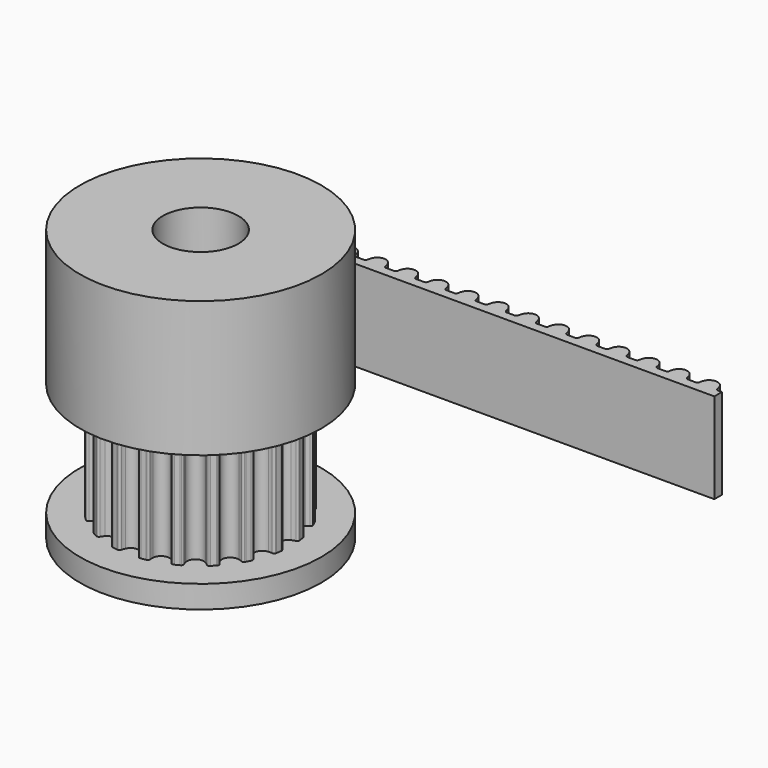
from build123d import *

# Parameters (mm, degrees)
F1_DEPTH  = 7.5
F2_R      = 8
F3_DEPTH  = 9
F4_R      = 8
F5_DEPTH  = 1.5
F6_R      = 2.5
F7_DEPTH  = 18.001
F8_R      = 1.5
F9_DEPTH  = 8.001
F10_R     = 1.5
F11_DEPTH = 8.0010001
F12_DEPTH = 6


with BuildPart() as f1:
    # F0 (on Top) → F1 (new body)
    with BuildSketch(Plane.XY):
        with BuildLine():
            ThreePointArc((-0.5137469529, -5.5950260293), (0, -5.25), (0.5137469529, -5.5950260293))
            ThreePointArc((0.5137469529, -5.5950260293), (0.5592692601, -5.7125893356), (0.5896381917, -5.8349459432))
            ThreePointArc((0.5896381917, -5.8349459432), (0.634011817, -5.9169199806), (0.718236871, -5.9568562008))
            ThreePointArc((0.718236871, -5.9568562008), (0.7555100891, -5.952243653), (0.7927537045, -5.9473978818))
            ThreePointArc((0.7927537045, -5.9473978818), (0.9386067902, -5.9261300436), (1.0838934413, -5.9012858775))
            ThreePointArc((1.0838934413, -5.9012858775), (1.1208116501, -5.8943855698), (1.1576859427, -5.8872543055))
            ThreePointArc((1.1576859427, -5.8872543055), (1.2254477584, -5.82324573), (1.2423182132, -5.7315715833))
            ThreePointArc((1.2423182132, -5.7315715833), (1.2333905124, -5.6058190183), (1.2403557397, -5.4799425032))
            ThreePointArc((1.2403557397, -5.4799425032), (1.6223392205, -4.9930467105), (2.2175605143, -5.1624294247))
            ThreePointArc((2.2175605143, -5.1624294247), (2.2971838607, -5.2601716067), (2.3638767022, -5.3671551397))
            ThreePointArc((2.3638767022, -5.3671551397), (2.4314098983, -5.4314048778), (2.5238536555, -5.4433595073))
            ThreePointArc((2.5238536555, -5.4433595073), (2.5578772368, -5.4274546558), (2.5918005942, -5.4113371434))
            ThreePointArc((2.5918005942, -5.4113371434), (2.7239429984, -5.3460391451), (2.8544415451, -5.2775148949))
            ThreePointArc((2.8544415451, -5.2775148949), (2.8874205358, -5.2595439583), (2.9202863902, -5.2413669399))
            ThreePointArc((2.9202863902, -5.2413669399), (2.964951969, -5.1595516144), (2.9526678557, -5.0671510626))
            ThreePointArc((2.9526678557, -5.0671510626), (2.905317428, -4.9503120775), (2.8730437705, -4.828444024))
            ThreePointArc((2.8730437705, -4.828444024), (3.0858725745, -4.2473392205), (3.7043038019, -4.2244982593))
            ThreePointArc((3.7043038019, -4.2244982593), (3.8102340997, -4.2928516312), (3.906722491, -4.373989796))
            ThreePointArc((3.906722491, -4.373989796), (3.9908046381, -4.4142260228), (4.0824180595, -4.3970288591))
            ThreePointArc((4.0824180595, -4.3970288591), (4.1098615388, -4.3713885816), (4.1371439837, -4.3455770225))
            ThreePointArc((4.1371439837, -4.3455770225), (4.2426406871, -4.2426406871), (4.3455770225, -4.1371439837))
            ThreePointArc((4.3455770225, -4.1371439837), (4.3713885816, -4.1098615388), (4.3970288591, -4.0824180595))
            ThreePointArc((4.3970288591, -4.0824180595), (4.4142260228, -3.9908046381), (4.373989796, -3.906722491))
            ThreePointArc((4.373989796, -3.906722491), (4.2928516312, -3.8102340997), (4.2244982593, -3.7043038019))
            ThreePointArc((4.2244982593, -3.7043038019), (4.2473392205, -3.0858725745), (4.828444024, -2.8730437705))
            ThreePointArc((4.828444024, -2.8730437705), (4.9503120775, -2.905317428), (5.0671510626, -2.9526678557))
            ThreePointArc((5.0671510626, -2.9526678557), (5.1595516144, -2.964951969), (5.2413669399, -2.9202863902))
            ThreePointArc((5.2413669399, -2.9202863902), (5.2595439583, -2.8874205358), (5.2775148949, -2.8544415451))
            ThreePointArc((5.2775148949, -2.8544415451), (5.3460391451, -2.7239429984), (5.4113371434, -2.5918005942))
            ThreePointArc((5.4113371434, -2.5918005942), (5.4432427829, -2.4673716464), (5.3671551397, -2.3638767022))
            ThreePointArc((5.3671551397, -2.3638767022), (5.2601716067, -2.2971838607), (5.1624294247, -2.2175605143))
            ThreePointArc((5.1624294247, -2.2175605143), (4.9930467105, -1.6223392205), (5.4799425032, -1.2403557397))
            ThreePointArc((5.4799425032, -1.2403557397), (5.6058190183, -1.2333905124), (5.7315715833, -1.2423182132))
            ThreePointArc((5.7315715833, -1.2423182132), (5.82324573, -1.2254477584), (5.8872543055, -1.1576859427))
            ThreePointArc((5.8872543055, -1.1576859427), (5.8943855698, -1.1208116501), (5.9012858775, -1.0838934413))
            ThreePointArc((5.9012858775, -1.0838934413), (5.9261300436, -0.9386067902), (5.9473978818, -0.7927537045))
            ThreePointArc((5.9473978818, -0.7927537045), (5.952243653, -0.7555100891), (5.9568562008, -0.718236871))
            ThreePointArc((5.9568562008, -0.718236871), (5.9169199806, -0.634011817), (5.8349459432, -0.5896381917))
            ThreePointArc((5.8349459432, -0.5896381917), (5.7125893356, -0.5592692601), (5.5950260293, -0.5137469529))
            ThreePointArc((5.5950260293, -0.5137469529), (5.25, 0), (5.5950260293, 0.5137469529))
            ThreePointArc((5.5950260293, 0.5137469529), (5.7125893356, 0.5592692601), (5.8349459432, 0.5896381917))
            ThreePointArc((5.8349459432, 0.5896381917), (5.9169199806, 0.634011817), (5.9568562008, 0.718236871))
            ThreePointArc((5.9568562008, 0.718236871), (5.952243653, 0.7555100891), (5.9473978818, 0.7927537045))
            ThreePointArc((5.9473978818, 0.7927537045), (5.9261300436, 0.9386067902), (5.9012858775, 1.0838934413))
            ThreePointArc((5.9012858775, 1.0838934413), (5.8943855698, 1.1208116501), (5.8872543055, 1.1576859427))
            ThreePointArc((5.8872543055, 1.1576859427), (5.82324573, 1.2254477584), (5.7315715833, 1.2423182132))
            ThreePointArc((5.7315715833, 1.2423182132), (5.6058190183, 1.2333905124), (5.4799425032, 1.2403557397))
            ThreePointArc((5.4799425032, 1.2403557397), (4.9930467105, 1.6223392205), (5.1624294247, 2.2175605143))
            ThreePointArc((5.1624294247, 2.2175605143), (5.2601716067, 2.2971838607), (5.3671551397, 2.3638767022))
            ThreePointArc((5.3671551397, 2.3638767022), (5.4314048778, 2.4314098983), (5.4433595073, 2.5238536555))
            ThreePointArc((5.4433595073, 2.5238536555), (5.4274546558, 2.5578772368), (5.4113371434, 2.5918005942))
            ThreePointArc((5.4113371434, 2.5918005942), (5.3460391451, 2.7239429984), (5.2775148949, 2.8544415451))
            ThreePointArc((5.2775148949, 2.8544415451), (5.2595439583, 2.8874205358), (5.2413669399, 2.9202863902))
            ThreePointArc((5.2413669399, 2.9202863902), (5.1595516144, 2.964951969), (5.0671510626, 2.9526678557))
            ThreePointArc((5.0671510626, 2.9526678557), (4.9503120775, 2.905317428), (4.828444024, 2.8730437705))
            ThreePointArc((4.828444024, 2.8730437705), (4.2473392205, 3.0858725745), (4.2244982593, 3.7043038019))
            ThreePointArc((4.2244982593, 3.7043038019), (4.2928516312, 3.8102340997), (4.373989796, 3.906722491))
            ThreePointArc((4.373989796, 3.906722491), (4.4142260228, 3.9908046381), (4.3970288591, 4.0824180595))
            ThreePointArc((4.3970288591, 4.0824180595), (4.3713885816, 4.1098615388), (4.3455770225, 4.1371439837))
            ThreePointArc((4.3455770225, 4.1371439837), (4.2426406871, 4.2426406871), (4.1371439837, 4.3455770225))
            ThreePointArc((4.1371439837, 4.3455770225), (4.1098615388, 4.3713885816), (4.0824180595, 4.3970288591))
            ThreePointArc((4.0824180595, 4.3970288591), (3.9908046381, 4.4142260228), (3.906722491, 4.373989796))
            ThreePointArc((3.906722491, 4.373989796), (3.8102340997, 4.2928516312), (3.7043038019, 4.2244982593))
            ThreePointArc((3.7043038019, 4.2244982593), (3.0858725745, 4.2473392205), (2.8730437705, 4.828444024))
            ThreePointArc((2.8730437705, 4.828444024), (2.905317428, 4.9503120775), (2.9526678557, 5.0671510626))
            ThreePointArc((2.9526678557, 5.0671510626), (2.964951969, 5.1595516144), (2.9202863902, 5.2413669399))
            ThreePointArc((2.9202863902, 5.2413669399), (2.8874205358, 5.2595439583), (2.8544415451, 5.2775148949))
            ThreePointArc((2.8544415451, 5.2775148949), (2.7239429984, 5.3460391451), (2.5918005942, 5.4113371434))
            ThreePointArc((2.5918005942, 5.4113371434), (2.5578772368, 5.4274546558), (2.5238536555, 5.4433595073))
            ThreePointArc((2.5238536555, 5.4433595073), (2.4314098983, 5.4314048778), (2.3638767022, 5.3671551397))
            ThreePointArc((2.3638767022, 5.3671551397), (2.2971838607, 5.2601716067), (2.2175605143, 5.1624294247))
            ThreePointArc((2.2175605143, 5.1624294247), (1.6223392205, 4.9930467105), (1.2403557397, 5.4799425032))
            ThreePointArc((1.2403557397, 5.4799425032), (1.2333905124, 5.6058190183), (1.2423182132, 5.7315715833))
            ThreePointArc((1.2423182132, 5.7315715833), (1.2254477584, 5.82324573), (1.1576859427, 5.8872543055))
            ThreePointArc((1.1576859427, 5.8872543055), (1.1208116501, 5.8943855698), (1.0838934413, 5.9012858775))
            ThreePointArc((1.0838934413, 5.9012858775), (0.9386067902, 5.9261300436), (0.7927537045, 5.9473978818))
            ThreePointArc((0.7927537045, 5.9473978818), (0.7555100891, 5.952243653), (0.718236871, 5.9568562008))
            ThreePointArc((0.718236871, 5.9568562008), (0.634011817, 5.9169199806), (0.5896381917, 5.8349459432))
            ThreePointArc((0.5896381917, 5.8349459432), (0.5592692601, 5.7125893356), (0.5137469529, 5.5950260293))
            ThreePointArc((0.5137469529, 5.5950260293), (0, 5.25), (-0.5137469529, 5.5950260293))
            ThreePointArc((-0.5137469529, 5.5950260293), (-0.5592692601, 5.7125893356), (-0.5896381917, 5.8349459432))
            ThreePointArc((-0.5896381917, 5.8349459432), (-0.634011817, 5.9169199806), (-0.718236871, 5.9568562008))
            ThreePointArc((-0.718236871, 5.9568562008), (-0.7555100891, 5.952243653), (-0.7927537045, 5.9473978818))
            ThreePointArc((-0.7927537045, 5.9473978818), (-0.9386067902, 5.9261300436), (-1.0838934413, 5.9012858775))
            ThreePointArc((-1.0838934413, 5.9012858775), (-1.1208116501, 5.8943855698), (-1.1576859427, 5.8872543055))
            ThreePointArc((-1.1576859427, 5.8872543055), (-1.2254477584, 5.82324573), (-1.2423182132, 5.7315715833))
            ThreePointArc((-1.2423182132, 5.7315715833), (-1.2333905124, 5.6058190183), (-1.2403557397, 5.4799425032))
            ThreePointArc((-1.2403557397, 5.4799425032), (-1.6223392205, 4.9930467105), (-2.2175605143, 5.1624294247))
            ThreePointArc((-2.2175605143, 5.1624294247), (-2.2971838607, 5.2601716067), (-2.3638767022, 5.3671551397))
            ThreePointArc((-2.3638767022, 5.3671551397), (-2.4314098983, 5.4314048778), (-2.5238536555, 5.4433595073))
            ThreePointArc((-2.5238536555, 5.4433595073), (-2.5578772368, 5.4274546558), (-2.5918005942, 5.4113371434))
            ThreePointArc((-2.5918005942, 5.4113371434), (-2.7239429984, 5.3460391451), (-2.8544415451, 5.2775148949))
            ThreePointArc((-2.8544415451, 5.2775148949), (-2.8874205358, 5.2595439583), (-2.9202863902, 5.2413669399))
            ThreePointArc((-2.9202863902, 5.2413669399), (-2.964951969, 5.1595516144), (-2.9526678557, 5.0671510626))
            ThreePointArc((-2.9526678557, 5.0671510626), (-2.905317428, 4.9503120775), (-2.8730437705, 4.828444024))
            ThreePointArc((-2.8730437705, 4.828444024), (-3.0858725745, 4.2473392205), (-3.7043038019, 4.2244982593))
            ThreePointArc((-3.7043038019, 4.2244982593), (-3.8102340997, 4.2928516312), (-3.906722491, 4.373989796))
            ThreePointArc((-3.906722491, 4.373989796), (-3.9908046381, 4.4142260228), (-4.0824180595, 4.3970288591))
            ThreePointArc((-4.0824180595, 4.3970288591), (-4.1098615388, 4.3713885816), (-4.1371439837, 4.3455770225))
            ThreePointArc((-4.1371439837, 4.3455770225), (-4.2426406871, 4.2426406871), (-4.3455770225, 4.1371439837))
            ThreePointArc((-4.3455770225, 4.1371439837), (-4.3713885816, 4.1098615388), (-4.3970288591, 4.0824180595))
            ThreePointArc((-4.3970288591, 4.0824180595), (-4.4142260228, 3.9908046381), (-4.373989796, 3.906722491))
            ThreePointArc((-4.373989796, 3.906722491), (-4.2928516312, 3.8102340997), (-4.2244982593, 3.7043038019))
            ThreePointArc((-4.2244982593, 3.7043038019), (-4.2473392205, 3.0858725745), (-4.828444024, 2.8730437705))
            ThreePointArc((-4.828444024, 2.8730437705), (-4.9503120775, 2.905317428), (-5.0671510626, 2.9526678557))
            ThreePointArc((-5.0671510626, 2.9526678557), (-5.1595516144, 2.964951969), (-5.2413669399, 2.9202863902))
            ThreePointArc((-5.2413669399, 2.9202863902), (-5.2595439583, 2.8874205358), (-5.2775148949, 2.8544415451))
            ThreePointArc((-5.2775148949, 2.8544415451), (-5.3460391451, 2.7239429984), (-5.4113371434, 2.5918005942))
            ThreePointArc((-5.4113371434, 2.5918005942), (-5.4274546558, 2.5578772368), (-5.4433595073, 2.5238536555))
            ThreePointArc((-5.4433595073, 2.5238536555), (-5.4314048778, 2.4314098983), (-5.3671551397, 2.3638767022))
            ThreePointArc((-5.3671551397, 2.3638767022), (-5.2601716067, 2.2971838607), (-5.1624294247, 2.2175605143))
            ThreePointArc((-5.1624294247, 2.2175605143), (-4.9930467105, 1.6223392205), (-5.4799425032, 1.2403557397))
            ThreePointArc((-5.4799425032, 1.2403557397), (-5.6058190183, 1.2333905124), (-5.7315715833, 1.2423182132))
            ThreePointArc((-5.7315715833, 1.2423182132), (-5.82324573, 1.2254477584), (-5.8872543055, 1.1576859427))
            ThreePointArc((-5.8872543055, 1.1576859427), (-5.8943855698, 1.1208116501), (-5.9012858775, 1.0838934413))
            ThreePointArc((-5.9012858775, 1.0838934413), (-5.9261300436, 0.9386067902), (-5.9473978818, 0.7927537045))
            ThreePointArc((-5.9473978818, 0.7927537045), (-5.952243653, 0.7555100891), (-5.9568562008, 0.718236871))
            ThreePointArc((-5.9568562008, 0.718236871), (-5.9169199806, 0.634011817), (-5.8349459432, 0.5896381917))
            ThreePointArc((-5.8349459432, 0.5896381917), (-5.7125893356, 0.5592692601), (-5.5950260293, 0.5137469529))
            ThreePointArc((-5.5950260293, 0.5137469529), (-5.25, 0), (-5.5950260293, -0.5137469529))
            ThreePointArc((-5.5950260293, -0.5137469529), (-5.7125893356, -0.5592692601), (-5.8349459432, -0.5896381917))
            ThreePointArc((-5.8349459432, -0.5896381917), (-5.9169199806, -0.634011817), (-5.9568562008, -0.718236871))
            ThreePointArc((-5.9568562008, -0.718236871), (-5.952243653, -0.7555100891), (-5.9473978818, -0.7927537045))
            ThreePointArc((-5.9473978818, -0.7927537045), (-5.9261300436, -0.9386067902), (-5.9012858775, -1.0838934413))
            ThreePointArc((-5.9012858775, -1.0838934413), (-5.8943855698, -1.1208116501), (-5.8872543055, -1.1576859427))
            ThreePointArc((-5.8872543055, -1.1576859427), (-5.82324573, -1.2254477584), (-5.7315715833, -1.2423182132))
            ThreePointArc((-5.7315715833, -1.2423182132), (-5.6058190183, -1.2333905124), (-5.4799425032, -1.2403557397))
            ThreePointArc((-5.4799425032, -1.2403557397), (-4.9930467105, -1.6223392205), (-5.1624294247, -2.2175605143))
            ThreePointArc((-5.1624294247, -2.2175605143), (-5.2601716067, -2.2971838607), (-5.3671551397, -2.3638767022))
            ThreePointArc((-5.3671551397, -2.3638767022), (-5.4314048778, -2.4314098983), (-5.4433595073, -2.5238536555))
            ThreePointArc((-5.4433595073, -2.5238536555), (-5.4274546558, -2.5578772368), (-5.4113371434, -2.5918005942))
            ThreePointArc((-5.4113371434, -2.5918005942), (-5.3460391451, -2.7239429984), (-5.2775148949, -2.8544415451))
            ThreePointArc((-5.2775148949, -2.8544415451), (-5.2595439583, -2.8874205358), (-5.2413669399, -2.9202863902))
            ThreePointArc((-5.2413669399, -2.9202863902), (-5.1595516144, -2.964951969), (-5.0671510626, -2.9526678557))
            ThreePointArc((-5.0671510626, -2.9526678557), (-4.9503120775, -2.905317428), (-4.828444024, -2.8730437705))
            ThreePointArc((-4.828444024, -2.8730437705), (-4.2473392205, -3.0858725745), (-4.2244982593, -3.7043038019))
            ThreePointArc((-4.2244982593, -3.7043038019), (-4.2928516312, -3.8102340997), (-4.373989796, -3.906722491))
            ThreePointArc((-4.373989796, -3.906722491), (-4.4142260228, -3.9908046381), (-4.3970288591, -4.0824180595))
            ThreePointArc((-4.3970288591, -4.0824180595), (-4.3713885816, -4.1098615388), (-4.3455770225, -4.1371439837))
            ThreePointArc((-4.3455770225, -4.1371439837), (-4.2426406871, -4.2426406871), (-4.1371439837, -4.3455770225))
            ThreePointArc((-4.1371439837, -4.3455770225), (-4.1098615388, -4.3713885816), (-4.0824180595, -4.3970288591))
            ThreePointArc((-4.0824180595, -4.3970288591), (-3.9908046381, -4.4142260228), (-3.906722491, -4.373989796))
            ThreePointArc((-3.906722491, -4.373989796), (-3.8102340997, -4.2928516312), (-3.7043038019, -4.2244982593))
            ThreePointArc((-3.7043038019, -4.2244982593), (-3.0858725745, -4.2473392205), (-2.8730437705, -4.828444024))
            ThreePointArc((-2.8730437705, -4.828444024), (-2.905317428, -4.9503120775), (-2.9526678557, -5.0671510626))
            ThreePointArc((-2.9526678557, -5.0671510626), (-2.964951969, -5.1595516144), (-2.9202863902, -5.2413669399))
            ThreePointArc((-2.9202863902, -5.2413669399), (-2.8874205358, -5.2595439583), (-2.8544415451, -5.2775148949))
            ThreePointArc((-2.8544415451, -5.2775148949), (-2.7239429984, -5.3460391451), (-2.5918005942, -5.4113371434))
            ThreePointArc((-2.5918005942, -5.4113371434), (-2.5578772368, -5.4274546558), (-2.5238536555, -5.4433595073))
            ThreePointArc((-2.5238536555, -5.4433595073), (-2.4314098983, -5.4314048778), (-2.3638767022, -5.3671551397))
            ThreePointArc((-2.3638767022, -5.3671551397), (-2.2971838607, -5.2601716067), (-2.2175605143, -5.1624294247))
            ThreePointArc((-2.2175605143, -5.1624294247), (-1.6223392205, -4.9930467105), (-1.2403557397, -5.4799425032))
            ThreePointArc((-1.2403557397, -5.4799425032), (-1.2333905124, -5.6058190183), (-1.2423182132, -5.7315715833))
            ThreePointArc((-1.2423182132, -5.7315715833), (-1.2254477584, -5.82324573), (-1.1576859427, -5.8872543055))
            ThreePointArc((-1.1576859427, -5.8872543055), (-1.1208116501, -5.8943855698), (-1.0838934413, -5.9012858775))
            ThreePointArc((-1.0838934413, -5.9012858775), (-0.9386067902, -5.9261300436), (-0.7927537045, -5.9473978818))
            ThreePointArc((-0.7927537045, -5.9473978818), (-0.7555100891, -5.952243653), (-0.718236871, -5.9568562008))
            ThreePointArc((-0.718236871, -5.9568562008), (-0.634011817, -5.9169199806), (-0.5896381917, -5.8349459432))
            ThreePointArc((-0.5896381917, -5.8349459432), (-0.5592692601, -5.7125893356), (-0.5137469529, -5.5950260293))
        make_face()
    extrude(amount=F1_DEPTH)

    # F2 (on face) → F3 (join)
    with BuildSketch(Plane.XY.offset(7.5)):
        Circle(F2_R)
    extrude(amount=F3_DEPTH)

    # F4 (on face) → F5 (join)
    with BuildSketch(Plane(origin=(0, 0, 0), x_dir=(1, 0, 0), z_dir=(0, 0, -1))):
        Circle(F4_R)
    extrude(amount=F5_DEPTH)

    # F6 (on face) → F7 (cut, through all)
    with BuildSketch(Plane(origin=(0, 0, -1.5), x_dir=(1, 0, 0), z_dir=(0, 0, -1))):
        Circle(F6_R)
    extrude(amount=-F7_DEPTH, mode=Mode.SUBTRACT)

    # F8 (on Right) → F9 (cut, through all)
    with BuildSketch(Plane.YZ):
        with Locations((0, 12)):
            Circle(F8_R)
    extrude(amount=-F9_DEPTH, mode=Mode.SUBTRACT)

    # F10 (on Front) → F11 (cut, through all)
    with BuildSketch(Plane.XZ):
        with Locations((0, 12)):
            Circle(F10_R)
    extrude(amount=-F11_DEPTH, mode=Mode.SUBTRACT)


with BuildPart() as f12:
    # F0 (on Top) → F12 (new body)
    with BuildSketch(Plane.XY):
        with BuildLine():
            Line((-18.1710498184, 18.4070537127), (-18.1710498184, 17.7770537127))
            Line((-18.1710498184, 17.7770537127), (19.8289501816, 17.7770537127))
            Line((19.8289501816, 17.7770537127), (19.8289501816, 18.4070537127))
            Line((19.8289501816, 18.4070537127), (19.5691256067, 18.4070537127))
            ThreePointArc((19.5691256067, 18.4070537127), (19.4702185357, 18.444282301), (19.420407073, 18.5374884953))
            ThreePointArc((19.420407073, 18.5374884953), (19.3865618959, 18.6951158667), (19.3278265861, 18.8452559599))
            ThreePointArc((19.3278265861, 18.8452559599), (19.1230995933, 19.0726927714), (18.8289501816, 19.1570537127))
            ThreePointArc((18.8289501816, 19.1570537127), (18.5348007699, 19.0726927714), (18.3300737771, 18.8452559599))
            ThreePointArc((18.3300737771, 18.8452559599), (18.2713384673, 18.6951158667), (18.2374932902, 18.5374884953))
            ThreePointArc((18.2374932902, 18.5374884953), (18.1876818275, 18.444282301), (18.0887747565, 18.4070537127))
            Line((18.0887747565, 18.4070537127), (17.8289501816, 18.4070537127))
            Line((17.8289501816, 18.4070537127), (17.5691256067, 18.4070537127))
            ThreePointArc((17.5691256067, 18.4070537127), (17.4702185357, 18.444282301), (17.420407073, 18.5374884953))
            ThreePointArc((17.420407073, 18.5374884953), (17.3865618959, 18.6951158667), (17.3278265861, 18.8452559599))
            ThreePointArc((17.3278265861, 18.8452559599), (17.1230995933, 19.0726927714), (16.8289501816, 19.1570537127))
            ThreePointArc((16.8289501816, 19.1570537127), (16.5348007699, 19.0726927714), (16.3300737771, 18.8452559599))
            ThreePointArc((16.3300737771, 18.8452559599), (16.2713384673, 18.6951158667), (16.2374932902, 18.5374884953))
            ThreePointArc((16.2374932902, 18.5374884953), (16.1876818275, 18.444282301), (16.0887747565, 18.4070537127))
            Line((16.0887747565, 18.4070537127), (15.8289501816, 18.4070537127))
            Line((15.8289501816, 18.4070537127), (15.5691256067, 18.4070537127))
            ThreePointArc((15.5691256067, 18.4070537127), (15.4702185357, 18.444282301), (15.420407073, 18.5374884953))
            ThreePointArc((15.420407073, 18.5374884953), (15.3865618959, 18.6951158667), (15.3278265861, 18.8452559599))
            ThreePointArc((15.3278265861, 18.8452559599), (15.1230995933, 19.0726927714), (14.8289501816, 19.1570537127))
            ThreePointArc((14.8289501816, 19.1570537127), (14.5348007699, 19.0726927714), (14.3300737771, 18.8452559599))
            ThreePointArc((14.3300737771, 18.8452559599), (14.2713384673, 18.6951158667), (14.2374932902, 18.5374884953))
            ThreePointArc((14.2374932902, 18.5374884953), (14.1876818275, 18.444282301), (14.0887747565, 18.4070537127))
            Line((14.0887747565, 18.4070537127), (13.8289501816, 18.4070537127))
            Line((13.8289501816, 18.4070537127), (13.5691256067, 18.4070537127))
            ThreePointArc((13.5691256067, 18.4070537127), (13.4702185357, 18.444282301), (13.420407073, 18.5374884953))
            ThreePointArc((13.420407073, 18.5374884953), (13.3865618959, 18.6951158667), (13.3278265861, 18.8452559599))
            ThreePointArc((13.3278265861, 18.8452559599), (13.1230995933, 19.0726927714), (12.8289501816, 19.1570537127))
            ThreePointArc((12.8289501816, 19.1570537127), (12.5348007699, 19.0726927714), (12.3300737771, 18.8452559599))
            ThreePointArc((12.3300737771, 18.8452559599), (12.2713384673, 18.6951158667), (12.2374932902, 18.5374884953))
            ThreePointArc((12.2374932902, 18.5374884953), (12.1876818275, 18.444282301), (12.0887747565, 18.4070537127))
            Line((12.0887747565, 18.4070537127), (11.8289501816, 18.4070537127))
            Line((11.8289501816, 18.4070537127), (11.5691256067, 18.4070537127))
            ThreePointArc((11.5691256067, 18.4070537127), (11.4702185357, 18.444282301), (11.420407073, 18.5374884953))
            ThreePointArc((11.420407073, 18.5374884953), (11.3865618959, 18.6951158667), (11.3278265861, 18.8452559599))
            ThreePointArc((11.3278265861, 18.8452559599), (11.1230995933, 19.0726927714), (10.8289501816, 19.1570537127))
            ThreePointArc((10.8289501816, 19.1570537127), (10.5348007699, 19.0726927714), (10.3300737771, 18.8452559599))
            ThreePointArc((10.3300737771, 18.8452559599), (10.2713384673, 18.6951158667), (10.2374932902, 18.5374884953))
            ThreePointArc((10.2374932902, 18.5374884953), (10.1876818275, 18.444282301), (10.0887747565, 18.4070537127))
            Line((10.0887747565, 18.4070537127), (9.8289501816, 18.4070537127))
            Line((9.8289501816, 18.4070537127), (9.5691256067, 18.4070537127))
            ThreePointArc((9.5691256067, 18.4070537127), (9.4702185357, 18.444282301), (9.420407073, 18.5374884953))
            ThreePointArc((9.420407073, 18.5374884953), (9.3865618959, 18.6951158667), (9.3278265861, 18.8452559599))
            ThreePointArc((9.3278265861, 18.8452559599), (9.1230995933, 19.0726927714), (8.8289501816, 19.1570537127))
            ThreePointArc((8.8289501816, 19.1570537127), (8.5348007699, 19.0726927714), (8.3300737771, 18.8452559599))
            ThreePointArc((8.3300737771, 18.8452559599), (8.2713384673, 18.6951158667), (8.2374932902, 18.5374884953))
            ThreePointArc((8.2374932902, 18.5374884953), (8.1876818275, 18.444282301), (8.0887747565, 18.4070537127))
            Line((8.0887747565, 18.4070537127), (7.8289501816, 18.4070537127))
            Line((7.8289501816, 18.4070537127), (7.5691256067, 18.4070537127))
            ThreePointArc((7.5691256067, 18.4070537127), (7.4702185357, 18.444282301), (7.420407073, 18.5374884953))
            ThreePointArc((7.420407073, 18.5374884953), (7.3865618959, 18.6951158667), (7.3278265861, 18.8452559599))
            ThreePointArc((7.3278265861, 18.8452559599), (7.1230995933, 19.0726927714), (6.8289501816, 19.1570537127))
            ThreePointArc((6.8289501816, 19.1570537127), (6.5348007699, 19.0726927714), (6.3300737771, 18.8452559599))
            ThreePointArc((6.3300737771, 18.8452559599), (6.2713384673, 18.6951158667), (6.2374932902, 18.5374884953))
            ThreePointArc((6.2374932902, 18.5374884953), (6.1876818275, 18.444282301), (6.0887747565, 18.4070537127))
            Line((6.0887747565, 18.4070537127), (5.8289501816, 18.4070537127))
            Line((5.8289501816, 18.4070537127), (5.5691256067, 18.4070537127))
            ThreePointArc((5.5691256067, 18.4070537127), (5.4702185357, 18.444282301), (5.420407073, 18.5374884953))
            ThreePointArc((5.420407073, 18.5374884953), (5.3865618959, 18.6951158667), (5.3278265861, 18.8452559599))
            ThreePointArc((5.3278265861, 18.8452559599), (5.1230995933, 19.0726927714), (4.8289501816, 19.1570537127))
            ThreePointArc((4.8289501816, 19.1570537127), (4.5348007699, 19.0726927714), (4.3300737771, 18.8452559599))
            ThreePointArc((4.3300737771, 18.8452559599), (4.2713384673, 18.6951158667), (4.2374932902, 18.5374884953))
            ThreePointArc((4.2374932902, 18.5374884953), (4.1876818275, 18.444282301), (4.0887747565, 18.4070537127))
            Line((4.0887747565, 18.4070537127), (3.8289501816, 18.4070537127))
            Line((3.8289501816, 18.4070537127), (3.5691256067, 18.4070537127))
            ThreePointArc((3.5691256067, 18.4070537127), (3.4702185357, 18.444282301), (3.420407073, 18.5374884953))
            ThreePointArc((3.420407073, 18.5374884953), (3.3865618959, 18.6951158667), (3.3278265861, 18.8452559599))
            ThreePointArc((3.3278265861, 18.8452559599), (3.1230995933, 19.0726927714), (2.8289501816, 19.1570537127))
            ThreePointArc((2.8289501816, 19.1570537127), (2.5348007699, 19.0726927714), (2.3300737771, 18.8452559599))
            ThreePointArc((2.3300737771, 18.8452559599), (2.2713384673, 18.6951158667), (2.2374932902, 18.5374884953))
            ThreePointArc((2.2374932902, 18.5374884953), (2.1876818275, 18.444282301), (2.0887747565, 18.4070537127))
            Line((2.0887747565, 18.4070537127), (1.8289501816, 18.4070537127))
            Line((1.8289501816, 18.4070537127), (1.5691256067, 18.4070537127))
            ThreePointArc((1.5691256067, 18.4070537127), (1.4702185357, 18.444282301), (1.420407073, 18.5374884953))
            ThreePointArc((1.420407073, 18.5374884953), (1.3865618959, 18.6951158667), (1.3278265861, 18.8452559599))
            ThreePointArc((1.3278265861, 18.8452559599), (1.1230995933, 19.0726927714), (0.8289501816, 19.1570537127))
            ThreePointArc((0.8289501816, 19.1570537127), (0.5348007699, 19.0726927714), (0.3300737771, 18.8452559599))
            ThreePointArc((0.3300737771, 18.8452559599), (0.2713384673, 18.6951158667), (0.2374932902, 18.5374884953))
            ThreePointArc((0.2374932902, 18.5374884953), (0.1876818275, 18.444282301), (0.0887747565, 18.4070537127))
            Line((0.0887747565, 18.4070537127), (-0.1710498184, 18.4070537127))
            Line((-0.1710498184, 18.4070537127), (-0.4308743933, 18.4070537127))
            ThreePointArc((-0.4308743933, 18.4070537127), (-0.5297814643, 18.444282301), (-0.579592927, 18.5374884953))
            ThreePointArc((-0.579592927, 18.5374884953), (-0.6134381041, 18.6951158667), (-0.6721734139, 18.8452559599))
            ThreePointArc((-0.6721734139, 18.8452559599), (-0.8769004067, 19.0726927714), (-1.1710498184, 19.1570537127))
            ThreePointArc((-1.1710498184, 19.1570537127), (-1.4651992301, 19.0726927714), (-1.6699262229, 18.8452559599))
            ThreePointArc((-1.6699262229, 18.8452559599), (-1.7286615327, 18.6951158667), (-1.7625067098, 18.5374884953))
            ThreePointArc((-1.7625067098, 18.5374884953), (-1.8123181725, 18.444282301), (-1.9112252435, 18.4070537127))
            Line((-1.9112252435, 18.4070537127), (-2.1710498184, 18.4070537127))
            Line((-2.1710498184, 18.4070537127), (-2.4308743933, 18.4070537127))
            ThreePointArc((-2.4308743933, 18.4070537127), (-2.5297814643, 18.444282301), (-2.579592927, 18.5374884953))
            ThreePointArc((-2.579592927, 18.5374884953), (-2.6134381041, 18.6951158667), (-2.6721734139, 18.8452559599))
            ThreePointArc((-2.6721734139, 18.8452559599), (-2.8769004067, 19.0726927714), (-3.1710498184, 19.1570537127))
            ThreePointArc((-3.1710498184, 19.1570537127), (-3.4651992301, 19.0726927714), (-3.6699262229, 18.8452559599))
            ThreePointArc((-3.6699262229, 18.8452559599), (-3.7286615327, 18.6951158667), (-3.7625067098, 18.5374884953))
            ThreePointArc((-3.7625067098, 18.5374884953), (-3.8123181725, 18.444282301), (-3.9112252435, 18.4070537127))
            Line((-3.9112252435, 18.4070537127), (-4.1710498184, 18.4070537127))
            Line((-4.1710498184, 18.4070537127), (-4.4308743933, 18.4070537127))
            ThreePointArc((-4.4308743933, 18.4070537127), (-4.5297814643, 18.444282301), (-4.579592927, 18.5374884953))
            ThreePointArc((-4.579592927, 18.5374884953), (-4.6134381041, 18.6951158667), (-4.6721734139, 18.8452559599))
            ThreePointArc((-4.6721734139, 18.8452559599), (-4.8769004067, 19.0726927714), (-5.1710498184, 19.1570537127))
            ThreePointArc((-5.1710498184, 19.1570537127), (-5.4651992301, 19.0726927714), (-5.6699262229, 18.8452559599))
            ThreePointArc((-5.6699262229, 18.8452559599), (-5.7286615327, 18.6951158667), (-5.7625067098, 18.5374884953))
            ThreePointArc((-5.7625067098, 18.5374884953), (-5.8123181725, 18.444282301), (-5.9112252435, 18.4070537127))
            Line((-5.9112252435, 18.4070537127), (-6.1710498184, 18.4070537127))
            Line((-6.1710498184, 18.4070537127), (-6.4308743933, 18.4070537127))
            ThreePointArc((-6.4308743933, 18.4070537127), (-6.5297814643, 18.444282301), (-6.579592927, 18.5374884953))
            ThreePointArc((-6.579592927, 18.5374884953), (-6.6134381041, 18.6951158667), (-6.6721734139, 18.8452559599))
            ThreePointArc((-6.6721734139, 18.8452559599), (-6.8769004067, 19.0726927714), (-7.1710498184, 19.1570537127))
            ThreePointArc((-7.1710498184, 19.1570537127), (-7.4651992301, 19.0726927714), (-7.6699262229, 18.8452559599))
            ThreePointArc((-7.6699262229, 18.8452559599), (-7.7286615327, 18.6951158667), (-7.7625067098, 18.5374884953))
            ThreePointArc((-7.7625067098, 18.5374884953), (-7.8123181725, 18.444282301), (-7.9112252435, 18.4070537127))
            Line((-7.9112252435, 18.4070537127), (-8.1710498184, 18.4070537127))
            Line((-8.1710498184, 18.4070537127), (-8.4308743933, 18.4070537127))
            ThreePointArc((-8.4308743933, 18.4070537127), (-8.5297814643, 18.444282301), (-8.579592927, 18.5374884953))
            ThreePointArc((-8.579592927, 18.5374884953), (-8.6134381041, 18.6951158667), (-8.6721734139, 18.8452559599))
            ThreePointArc((-8.6721734139, 18.8452559599), (-8.8769004067, 19.0726927714), (-9.1710498184, 19.1570537127))
            ThreePointArc((-9.1710498184, 19.1570537127), (-9.4651992301, 19.0726927714), (-9.6699262229, 18.8452559599))
            ThreePointArc((-9.6699262229, 18.8452559599), (-9.7286615327, 18.6951158667), (-9.7625067098, 18.5374884953))
            ThreePointArc((-9.7625067098, 18.5374884953), (-9.8123181725, 18.444282301), (-9.9112252435, 18.4070537127))
            Line((-9.9112252435, 18.4070537127), (-10.1710498184, 18.4070537127))
            Line((-10.1710498184, 18.4070537127), (-10.4308743933, 18.4070537127))
            ThreePointArc((-10.4308743933, 18.4070537127), (-10.5297814643, 18.444282301), (-10.579592927, 18.5374884953))
            ThreePointArc((-10.579592927, 18.5374884953), (-10.6134381041, 18.6951158667), (-10.6721734139, 18.8452559599))
            ThreePointArc((-10.6721734139, 18.8452559599), (-10.8769004067, 19.0726927714), (-11.1710498184, 19.1570537127))
            ThreePointArc((-11.1710498184, 19.1570537127), (-11.4651992301, 19.0726927714), (-11.6699262229, 18.8452559599))
            ThreePointArc((-11.6699262229, 18.8452559599), (-11.7286615327, 18.6951158667), (-11.7625067098, 18.5374884953))
            ThreePointArc((-11.7625067098, 18.5374884953), (-11.8123181725, 18.444282301), (-11.9112252435, 18.4070537127))
            Line((-11.9112252435, 18.4070537127), (-12.1710498184, 18.4070537127))
            Line((-12.1710498184, 18.4070537127), (-12.4308743933, 18.4070537127))
            ThreePointArc((-12.4308743933, 18.4070537127), (-12.5297814643, 18.444282301), (-12.579592927, 18.5374884953))
            ThreePointArc((-12.579592927, 18.5374884953), (-12.6134381041, 18.6951158667), (-12.6721734139, 18.8452559599))
            ThreePointArc((-12.6721734139, 18.8452559599), (-12.8769004067, 19.0726927714), (-13.1710498184, 19.1570537127))
            ThreePointArc((-13.1710498184, 19.1570537127), (-13.4651992301, 19.0726927714), (-13.6699262229, 18.8452559599))
            ThreePointArc((-13.6699262229, 18.8452559599), (-13.7286615327, 18.6951158667), (-13.7625067098, 18.5374884953))
            ThreePointArc((-13.7625067098, 18.5374884953), (-13.8123181725, 18.444282301), (-13.9112252435, 18.4070537127))
            Line((-13.9112252435, 18.4070537127), (-14.1710498184, 18.4070537127))
            Line((-14.1710498184, 18.4070537127), (-14.4308743933, 18.4070537127))
            ThreePointArc((-14.4308743933, 18.4070537127), (-14.5297814643, 18.444282301), (-14.579592927, 18.5374884953))
            ThreePointArc((-14.579592927, 18.5374884953), (-14.6134381041, 18.6951158667), (-14.6721734139, 18.8452559599))
            ThreePointArc((-14.6721734139, 18.8452559599), (-14.8769004067, 19.0726927714), (-15.1710498184, 19.1570537127))
            ThreePointArc((-15.1710498184, 19.1570537127), (-15.4651992301, 19.0726927714), (-15.6699262229, 18.8452559599))
            ThreePointArc((-15.6699262229, 18.8452559599), (-15.7286615327, 18.6951158667), (-15.7625067098, 18.5374884953))
            ThreePointArc((-15.7625067098, 18.5374884953), (-15.8123181725, 18.444282301), (-15.9112252435, 18.4070537127))
            Line((-15.9112252435, 18.4070537127), (-16.1710498184, 18.4070537127))
            Line((-16.1710498184, 18.4070537127), (-16.4308743933, 18.4070537127))
            ThreePointArc((-16.4308743933, 18.4070537127), (-16.5297814643, 18.444282301), (-16.579592927, 18.5374884953))
            ThreePointArc((-16.579592927, 18.5374884953), (-16.6134381041, 18.6951158667), (-16.6721734139, 18.8452559599))
            ThreePointArc((-16.6721734139, 18.8452559599), (-16.8769004067, 19.0726927714), (-17.1710498184, 19.1570537127))
            ThreePointArc((-17.1710498184, 19.1570537127), (-17.4651992301, 19.0726927714), (-17.6699262229, 18.8452559599))
            ThreePointArc((-17.6699262229, 18.8452559599), (-17.7286615327, 18.6951158667), (-17.7625067098, 18.5374884953))
            ThreePointArc((-17.7625067098, 18.5374884953), (-17.8123181725, 18.444282301), (-17.9112252435, 18.4070537127))
            Line((-17.9112252435, 18.4070537127), (-18.1710498184, 18.4070537127))
        make_face()
    extrude(amount=F12_DEPTH)


solid = Compound([f1.part, f12.part])
